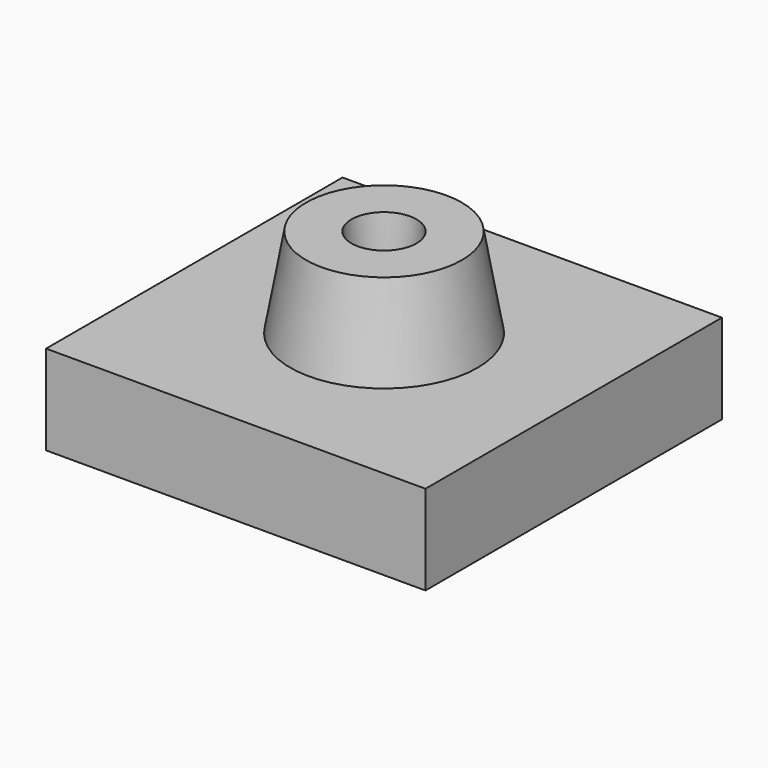
from build123d import *

# Parameters (mm, degrees)
F0_W     = 215.1181101799
F0_H     = 210.1173847914
F1_DEPTH = 50.8
F2_R     = 53.1290592744
F3_DEPTH = 50.8
F3_TAPER = 10
F5_R     = 18.4483191982
F6_DEPTH = 25.4
F6_TAPER = 3


with BuildPart() as f1:
    # F0 (on Top) → F1 (new body)
    with BuildSketch(Plane.XY):
        Rectangle(F0_W, F0_H)
    extrude(amount=F1_DEPTH)

    # F2 (on face) → F3 (join)
    with BuildSketch(Plane.XY.offset(50.8)):
        Circle(F2_R)
    extrude(amount=F3_DEPTH, taper=F3_TAPER)

    # F5 (on face) → F6 (cut)
    with BuildSketch(Plane.XY.offset(101.6)):
        Circle(F5_R)
    extrude(amount=-F6_DEPTH, taper=F6_TAPER, mode=Mode.SUBTRACT)


solid = f1.part
